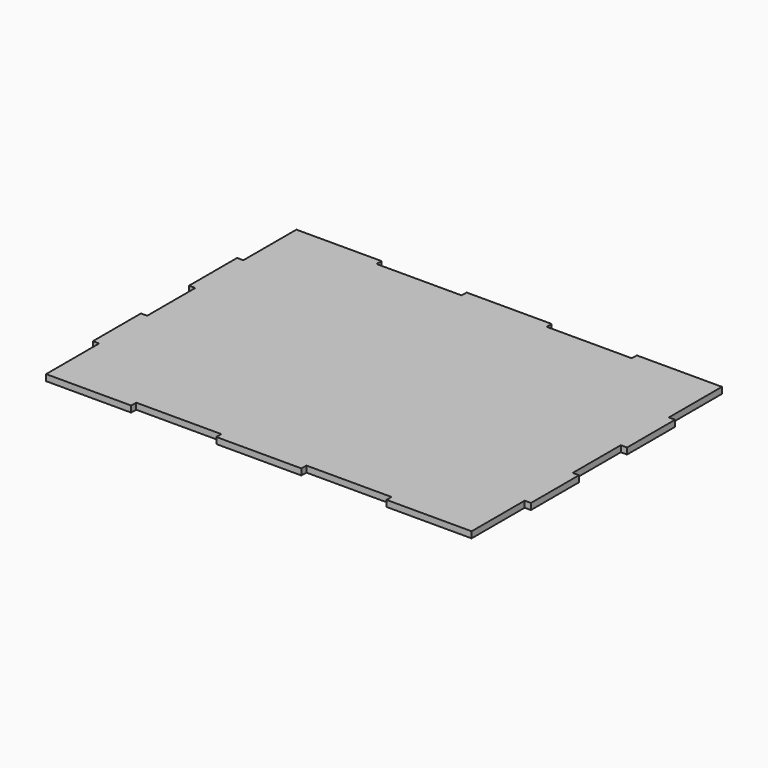
from build123d import *

# Parameters (mm, degrees)
F0_W     = 68
F0_H     = 5
F0_W_2   = 5
F0_H_2   = 48
F1_DEPTH = 5


with BuildPart() as f1:
    # F0 (on Top) → F1 (new body)
    with BuildSketch(Plane.XY):
        with Locations((136, -122.5)):
            Rectangle(F0_W, F0_H)
        Polygon((102, -120), (170, -120), (170, -72), (170, -24), (170, 24), (170, 72), (170, 120), (102, 120), (34, 120), (-34, 120), (-102, 120), (-170, 120), (-170, 72), (-170, 24), (-170, -24), (-170, -72), (-170, -120), (-102, -120), (-34, -120), (34, -120), align=None)
        with Locations((172.5, -48)):
            Rectangle(F0_W_2, F0_H_2)
        with Locations((0, -122.5)):
            Rectangle(F0_W, F0_H)
        with Locations((172.5, 48)):
            Rectangle(F0_W_2, F0_H_2)
        with Locations((-136, -122.5)):
            Rectangle(F0_W, F0_H)
        with Locations((136, 122.5)):
            Rectangle(F0_W, F0_H)
        with Locations((-172.5, -48)):
            Rectangle(F0_W_2, F0_H_2)
        with Locations((0, 122.5)):
            Rectangle(F0_W, F0_H)
        with Locations((-172.5, 48)):
            Rectangle(F0_W_2, F0_H_2)
        with Locations((-136, 122.5)):
            Rectangle(F0_W, F0_H)
    extrude(amount=F1_DEPTH)


solid = f1.part
